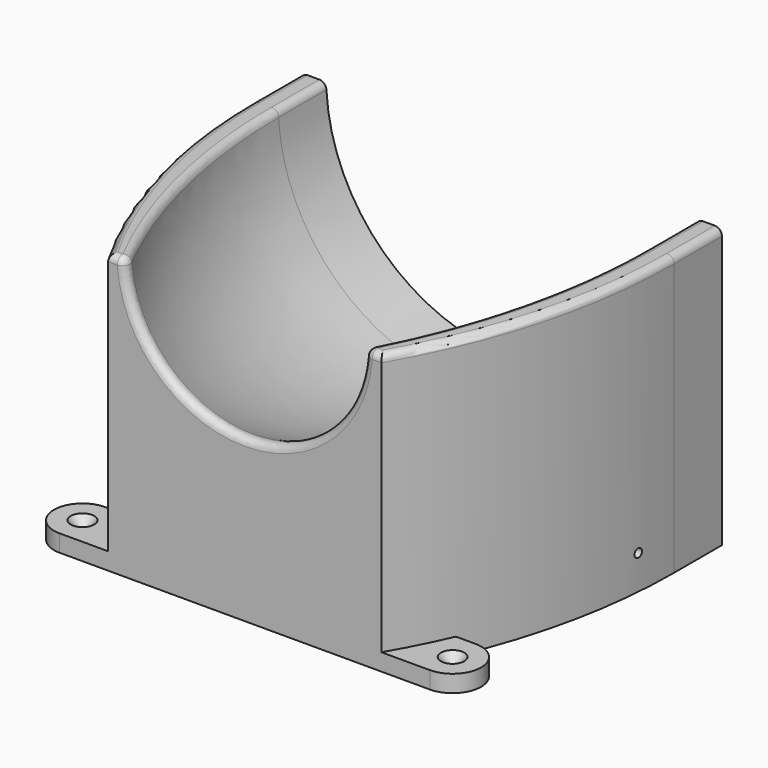
from build123d import *

# Parameters (mm, degrees)
CYLINDER063_R              = 1.6
CYLINDER063_DEPTH          = 10
EXTRUDE027_DEPTH           = 6
EXTRUDE030_DEPTH           = 6
EXTRUDE030_PLACEMENT_ANGLE = 180
CYLINDER072_R              = 1.5
CYLINDER072_DEPTH          = 45
PRISM011_DEPTH             = 3
CYLINDER071_R              = 3
CYLINDER071_DEPTH          = 5
FUSION063_PLACEMENT_ANGLE  = 180
CYLINDER070_R              = 1.5
CYLINDER070_DEPTH          = 45
PRISM010_DEPTH             = 3
CYLINDER068_R              = 3
CYLINDER068_DEPTH          = 5
EXTRUDE026_DEPTH           = 24
REVOLVE001_ANGLE           = 180
EXTRUDE025_DEPTH           = 74
FILLET004_R                = 2.5
FUSION064_PLACEMENT_ANGLE  = 180


with BuildPart() as cono003:
    # Cone003 → Cone003 (revolve)
    with BuildSketch(Plane(origin=(0, 0, -96), x_dir=(1, 0, 0), z_dir=(0, -1, 0))):
        Polygon((0, 0), (1.6, 0), (4.1, 3), (0, 3), align=None)
    revolve(axis=Axis((0, 0, -96), (0, 0, 1)))


with BuildPart() as cilindro063:
    # Cylinder063 → Cylinder063 (new body)
    with BuildSketch(Plane.XY.offset(-106)):
        Circle(CYLINDER063_R)
    extrude(amount=CYLINDER063_DEPTH)


with BuildPart() as fusion058:
    # Fusion058 base: copy of Cilindro063
    add(cilindro063.part)

    # Fusion058: union Cono003
    add(cono003.part)


with BuildPart() as fusion058_1:
    # Fusion058 placement: moved
    add(fusion058.part.moved(Location((65, 107, 0))))


with BuildPart() as fusion059:
    # Fusion057 base: copy of Cilindro063
    add(cilindro063.part)

    # Fusion057: union Cono003
    add(cono003.part)


with BuildPart() as fusion059_1:
    # Fusion057 placement: moved
    add(fusion059.part.moved(Location((-65, 107, 0))))

    # Fusion059: union Fusion058
    add(fusion058_1.part)


with BuildPart() as extrude027:
    # Sketch020 → Extrude027 (new body)
    with BuildSketch(Plane.XY.offset(-99)):
        with BuildLine():
            ThreePointArc((0, 10), (-10, 0), (0, -10))
            Line((20, -10), (0, -10))
            Line((20, 10), (20, -10))
            Line((0, 10), (20, 10))
        make_face()
    extrude(amount=EXTRUDE027_DEPTH)


with BuildPart() as extrude027_1:
    # Extrude027 placement: moved
    add(extrude027.part.moved(Location((-65, 107, 0))))


with BuildPart() as cut022:
    # Sketch020 → Extrude030 (new body)
    with BuildSketch(Plane.XY.offset(-99)):
        with BuildLine():
            ThreePointArc((0, 10), (-10, 0), (0, -10))
            Line((20, -10), (0, -10))
            Line((20, 10), (20, -10))
            Line((0, 10), (20, 10))
        make_face()
    extrude(amount=EXTRUDE030_DEPTH)


with BuildPart() as cut022_1:
    # Extrude030 placement: moved
    add(cut022.part.moved(Location((65, 107, 0))).rotate(Axis((65, 107, 0), (0, 0, 1)), EXTRUDE030_PLACEMENT_ANGLE))

    # Fusion055: union Extrude027
    add(extrude027_1.part)

    # Cut022: cut Fusion059
    add(fusion059_1.part, mode=Mode.SUBTRACT)


with BuildPart() as cilindro072:
    # Cylinder072 → Cylinder072 (new body)
    with BuildSketch(Plane(origin=(33, 0, -87), x_dir=(0, 0, 1), z_dir=(-1, 0, 0))):
        Circle(CYLINDER072_R)
    extrude(amount=CYLINDER072_DEPTH)


with BuildPart() as prisma011:
    # Prism011 → Prism011 (new body)
    with BuildSketch(Plane(origin=(0, 0, -87), x_dir=(0, 0, 1), z_dir=(-1, 0, 0))):
        Polygon((3, 0), (1.5, 2.598076), (-1.5, 2.598076), (-3, 0), (-1.5, -2.598076), (1.5, -2.598076), align=None)
    extrude(amount=PRISM011_DEPTH)


with BuildPart() as fusion063:
    # Cylinder071 → Cylinder071 (new body)
    with BuildSketch(Plane(origin=(24, 0, -87), x_dir=(0, 0, 1), z_dir=(-1, 0, 0))):
        Circle(CYLINDER071_R)
    extrude(amount=CYLINDER071_DEPTH)

    # Fusion063: union Cilindro072, Prisma011
    add(cilindro072.part)
    add(prisma011.part)


with BuildPart() as fusion063_1:
    # Fusion063 placement: moved
    add(fusion063.part.moved(Location((-65, 36, 0))).rotate(Axis((-65, 36, 0), (0, 0, 1)), FUSION063_PLACEMENT_ANGLE))


with BuildPart() as cilindro070:
    # Cylinder070 → Cylinder070 (new body)
    with BuildSketch(Plane(origin=(98, 36, -87), x_dir=(0, 0, 1), z_dir=(-1, 0, 0))):
        Circle(CYLINDER070_R)
    extrude(amount=CYLINDER070_DEPTH)


with BuildPart() as prisma010:
    # Prism010 → Prism010 (new body)
    with BuildSketch(Plane(origin=(65, 36, -87), x_dir=(0, 0, 1), z_dir=(-1, 0, 0))):
        Polygon((3, 0), (1.5, 2.598076), (-1.5, 2.598076), (-3, 0), (-1.5, -2.598076), (1.5, -2.598076), align=None)
    extrude(amount=PRISM010_DEPTH)


with BuildPart() as fusion061:
    # Cylinder068 → Cylinder068 (new body)
    with BuildSketch(Plane(origin=(89, 36, -87), x_dir=(0, 0, 1), z_dir=(-1, 0, 0))):
        Circle(CYLINDER068_R)
    extrude(amount=CYLINDER068_DEPTH)

    # Fusion062: union Cilindro070, Prisma010
    add(cilindro070.part)
    add(prisma010.part)

    # Fusion061: union Fusion063
    add(fusion063_1.part)


with BuildPart() as cut023:
    # Sketch019 → Extrude026 (new body)
    with BuildSketch(Plane.XY.offset(-75)):
        with BuildLine():
            ThreePointArc((-48, 117), (-67.384986, 70.729267), (-74, 21))
            Line((-74, 21), (-74, 0))
            Line((-74, 0), (74, 0))
            Line((74, 21), (74, 0))
            ThreePointArc((74, 21), (67.384986, 70.729267), (48, 117))
            Line((-48, 117), (48, 117))
        make_face()
        with BuildLine():
            Line((-38, 107), (-7.5, 107))
            Line((-7.5, 107), (-7.5, 7.5))
            Line((-7.5, 7.5), (-64, 7.5))
            Line((-64, 7.5), (-64, 21))
            ThreePointArc((-38, 107), (-57.357897, 65.922155), (-64, 21))
        make_face(mode=Mode.SUBTRACT)
        with BuildLine():
            Line((7.5, 107), (7.5, 7.5))
            Line((7.5, 7.5), (64, 7.5))
            Line((64, 7.5), (64, 21))
            ThreePointArc((64, 21), (57.357897, 65.922155), (38, 107))
            Line((38, 107), (7.5, 107))
        make_face(mode=Mode.SUBTRACT)
    extrude(amount=-EXTRUDE026_DEPTH)

    # Cut023: cut Fusion061
    add(fusion061.part, mode=Mode.SUBTRACT)


with BuildPart() as revolve001:
    # Sketch017 → Revolve001 (revolve)
    with BuildSketch(Plane.XY):
        with BuildLine():
            Line((-65, 21), (-65, -21))
            ThreePointArc((-65, -21), (-58.133531, -73.27332), (-38, -122))
            Line((-38, -122), (0, -122))
            Line((0, 122), (0, -122))
            Line((0, 122), (-38, 122))
            ThreePointArc((-38, 122), (-58.133531, 73.27332), (-65, 21))
        make_face()
    revolve(axis=Axis((0, 0, 0), (0, -1, 0)), revolution_arc=REVOLVE001_ANGLE)


with BuildPart() as obj1:
    # Sketch018 → Extrude025 (new body)
    with BuildSketch(Plane.XY):
        with BuildLine():
            Line((-74, 21), (-74, 0))
            Line((-74, 0), (74, 0))
            Line((74, 21), (74, 0))
            ThreePointArc((74, 21), (67.384986, 70.729267), (48, 117))
            Line((-48, 117), (48, 117))
            ThreePointArc((-48, 117), (-67.384986, 70.729267), (-74, 21))
        make_face()
    extrude(amount=-EXTRUDE025_DEPTH)


with BuildPart() as obj1_1:
    # Extrude025 placement: moved
    add(obj1.part.moved(Location((0, 0, -1))))

    # Cut021: cut Revolve001
    add(revolve001.part, mode=Mode.SUBTRACT)

    # Fillet004
    fillet004_edges = [obj1_1.edges().sort_by_distance(p)[0] for p in [
        (67.384986, 70.729267, -1),
        (74, 10.5, -1),
        (44.386684, 117, -1),
        (0, 117, -40.78563),
        (-44.386684, 117, -1),
        (64.992307, 10.5, -1),
        (58.844411, 70.504014, -1),
        (-58.844411, 70.504014, -1),
        (-64.992307, 10.5, -1),
        (-74, 10.5, -1),
        (-67.384986, 70.729267, -1),
    ]]
    fillet(fillet004_edges, radius=FILLET004_R)

    # Fusion064: union Cut022, Cut023
    add(cut022_1.part)
    add(cut023.part)


with BuildPart() as obj1_2:
    # Fusion064 placement: moved
    add(obj1_1.part.rotate(Axis((0, 0, 0), (0, 0, 1)), FUSION064_PLACEMENT_ANGLE))


solid = obj1_2.part
